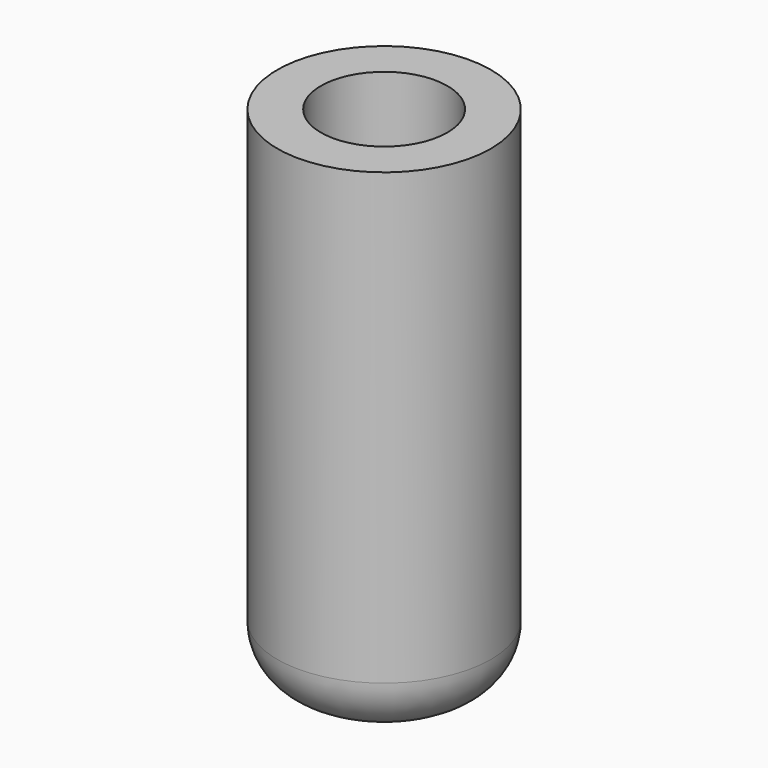
from build123d import *

# Parameters (mm, degrees)
SKETCH_R     = 3.8
PAD_DEPTH    = 18
SKETCH001_R  = 2.25
POCKET_DEPTH = 14.5
FILLET_R     = 2


with BuildPart() as part:
    # Sketch → Pad (new body)
    with BuildSketch(Plane.XY):
        Circle(SKETCH_R)
    extrude(amount=PAD_DEPTH)

    # Sketch001 (on Face3 of Pad) → Pocket (cut)
    with BuildSketch(Plane.XY.offset(18)):
        Circle(SKETCH001_R)
    extrude(amount=-POCKET_DEPTH, mode=Mode.SUBTRACT)

    # Fillet
    fillet_edges = [part.edges().sort_by_distance(p)[0] for p in [
        (-3.8, 0, 0),
    ]]
    fillet(fillet_edges, radius=FILLET_R)


solid = part.part
